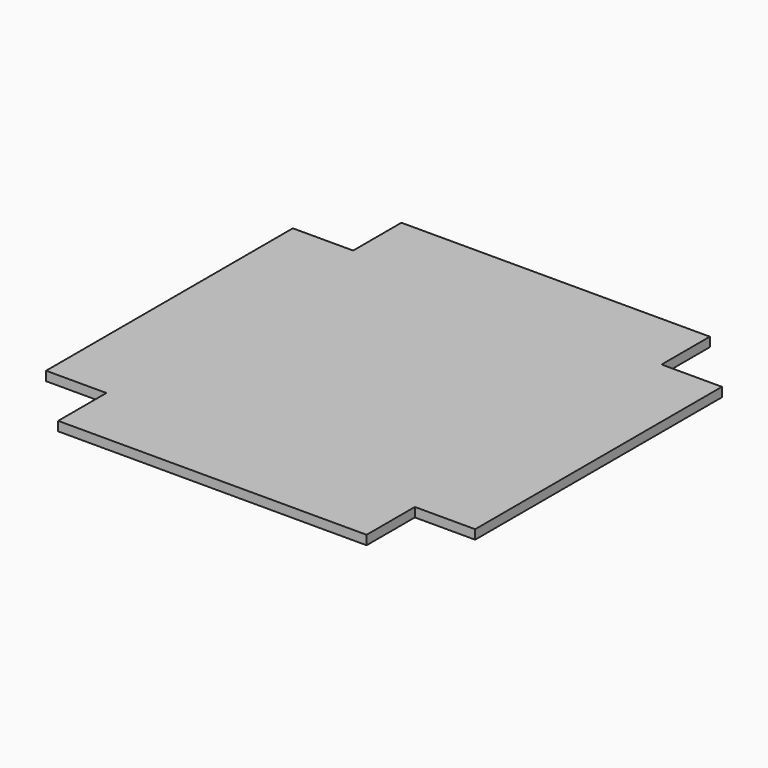
from build123d import *

# Parameters (mm, degrees)
F0_W     = 8.8
F0_H     = 45
F0_W_2   = 45
F0_H_2   = 8.8
F1_DEPTH = 1.35


with BuildPart() as f1:
    # F0 (on Top) → F1 (new body)
    with BuildSketch(Plane.XY):
        with Locations((26.9, 0)):
            Rectangle(F0_W, F0_H)
        Rectangle(F0_W_2, F0_H)
        with Locations((0, 26.9)):
            Rectangle(F0_W_2, F0_H_2)
        with Locations((-26.9, 0)):
            Rectangle(F0_W, F0_H)
        with Locations((0, -26.9)):
            Rectangle(F0_W_2, F0_H_2)
    extrude(amount=F1_DEPTH)


solid = f1.part
